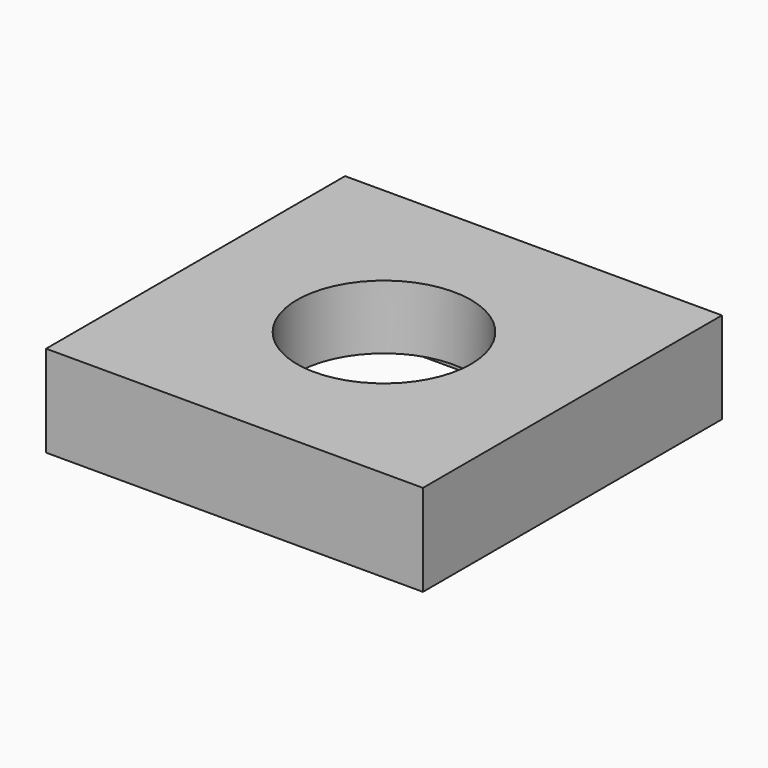
from build123d import *

# Parameters (mm, degrees)
F0_W     = 20.5790107138
F0_H     = 20.4056631774
F0_W_2   = 13
F0_H_2   = 13.5
F0_R     = 4.75
F1_DEPTH = 5
F2_DEPTH = 1.5


with BuildPart() as f1:
    # F0 (on Top) → F1 (new body)
    with BuildSketch(Plane.XY):
        Rectangle(F0_W, F0_H)
        Rectangle(F0_W_2, F0_H_2, mode=Mode.SUBTRACT)
        Rectangle(F0_W_2, F0_H_2)
        Circle(F0_R, mode=Mode.SUBTRACT)
    extrude(amount=F1_DEPTH)

    # F0 (on Top) → F2 (cut)
    with BuildSketch(Plane.XY):
        Rectangle(F0_W_2, F0_H_2)
        Circle(F0_R, mode=Mode.SUBTRACT)
    extrude(amount=F2_DEPTH, mode=Mode.SUBTRACT)


solid = f1.part
